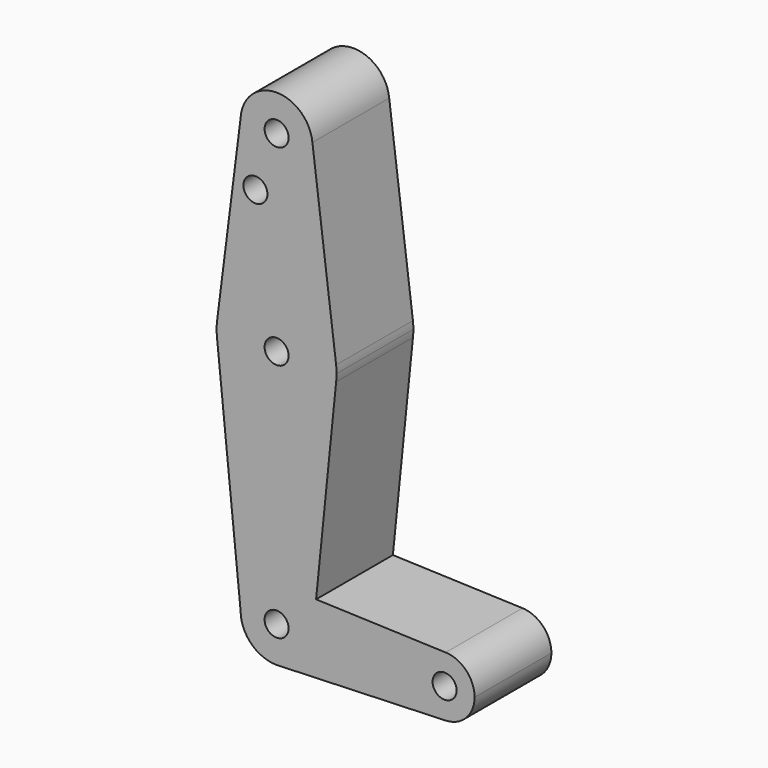
from build123d import *

# Parameters (mm, degrees)
F0_R     = 3.175
F1_DEPTH = 25.4


with BuildPart() as f1:
    # F0 (on Front) → F1 (new body)
    with BuildSketch(Plane.XZ):
        with BuildLine():
            Line((0.6773435479, 9.500885786), (0, 9.525))
            ThreePointArc((0, 9.525), (-6.7351920908, 6.7351920908), (-9.525, 0))
            ThreePointArc((-9.525, 0), (-6.7351920908, -6.7351920908), (0, -9.525))
            Line((0, -9.525), (0.6773435479, -9.500885786))
            ThreePointArc((0.6773435479, -9.500885786), (6.9705567315, -6.4912990883), (9.525, 0))
            ThreePointArc((9.525, 0), (6.9705567315, 6.4912990883), (0.6773435479, 9.500885786))
        make_face()
        Circle(F0_R, mode=Mode.SUBTRACT)
        with BuildLine():
            ThreePointArc((-9.525, 0), (-6.7351920908, 6.7351920908), (0, 9.525))
            ThreePointArc((0, 9.525), (0.3388863295, 9.5189695375), (0.6773435479, 9.500885786))
            Line((0.6773435479, 9.500885786), (10.4513434813, 9.1529200793))
            Line((10.4513434813, 9.1529200793), (15.7522627132, 61.5297015358))
            ThreePointArc((15.7522627132, 61.5297015358), (-0.1865159815, 47.6260958159), (-15.7941956396, 61.9003822774))
            Line((-15.7941956396, 61.9003822774), (-9.525, 0))
        make_face()
        with BuildLine():
            Line((10.4513434813, 9.1529200793), (0.6773435479, 9.500885786))
            ThreePointArc((0.6773435479, 9.500885786), (6.9705567315, 6.4912990883), (9.525, 0))
            Line((9.525, 0), (10.4513434813, 9.1529200793))
        make_face()
        with BuildLine():
            Line((0.6773435479, -9.500885786), (0, -9.525))
            ThreePointArc((0, -9.525), (0.3388863295, -9.5189695375), (0.6773435479, -9.500885786))
        make_face()
        with BuildLine():
            ThreePointArc((-15.7498007105, 65.4897665669), (-15.8737785304, 63.696333282), (-15.7941956396, 61.9003822774))
            ThreePointArc((-15.7941956396, 61.9003822774), (-0.1865159815, 47.6260958159), (15.7522627132, 61.5297015358))
            ThreePointArc((15.7522627132, 61.5297015358), (15.8442914769, 62.5129409485), (15.8750073521, 63.5))
            ThreePointArc((15.8750073521, 63.5), (15.8438216155, 64.494572565), (15.7503869317, 65.4852375421))
            ThreePointArc((15.7503869317, 65.4852375421), (0.0022898231, 79.3749998359), (-15.7498007105, 65.4897665669))
        make_face()
        with Locations((7.3521e-06, 63.5)):
            Circle(F0_R, mode=Mode.SUBTRACT)
        with BuildLine():
            Line((10.4513434813, 9.1529200793), (9.525, 0))
            ThreePointArc((9.525, 0), (6.9705567315, -6.4912990883), (0.6773435479, -9.500885786))
            Line((0.6773435479, -9.500885786), (44.7324052746, -7.9324746146))
            ThreePointArc((44.7324052746, -7.9324746146), (36.5125, 0), (44.7324052746, 7.9324746146))
            Line((44.7324052746, 7.9324746146), (10.4513434813, 9.1529200793))
        make_face()
        with BuildLine():
            Line((-9.5046001494, 114.9230577828), (-15.7498007105, 65.4897665669))
            ThreePointArc((-15.7498007105, 65.4897665669), (0.0022898231, 79.3749998359), (15.7503869317, 65.4852375421))
            Line((15.7503869317, 65.4852375421), (9.4761320574, 115.2636110372))
            ThreePointArc((9.4761320574, 115.2636110372), (9.5127751694, 114.782424685), (9.525, 114.3))
            ThreePointArc((9.525, 114.3), (-0.3116958272, 104.7801013287), (-9.5046001494, 114.9230577828))
        make_face()
        with Locations((-5.6031434797, 99.3416681886)):
            Circle(F0_R, mode=Mode.SUBTRACT)
        with BuildLine():
            ThreePointArc((52.3875, 0), (50.1616327839, 5.5119104847), (44.7324052746, 7.9324746146))
            ThreePointArc((44.7324052746, 7.9324746146), (36.5125, 0), (44.7324052746, -7.9324746146))
            ThreePointArc((44.7324052746, -7.9324746146), (50.1616327839, -5.5119104847), (52.3875, 0))
        make_face()
        with Locations((44.45, 0)):
            Circle(F0_R, mode=Mode.SUBTRACT)
        with BuildLine():
            ThreePointArc((9.4761320574, 115.2636110372), (-0.1708705294, 123.8234672395), (-9.5046001494, 114.9230577828))
            ThreePointArc((-9.5046001494, 114.9230577828), (-0.3116958272, 104.7801013287), (9.525, 114.3))
            ThreePointArc((9.525, 114.3), (9.5127751694, 114.782424685), (9.4761320574, 115.2636110372))
        make_face()
        with Locations((0, 114.3)):
            Circle(F0_R, mode=Mode.SUBTRACT)
    extrude(amount=F1_DEPTH)


solid = f1.part
